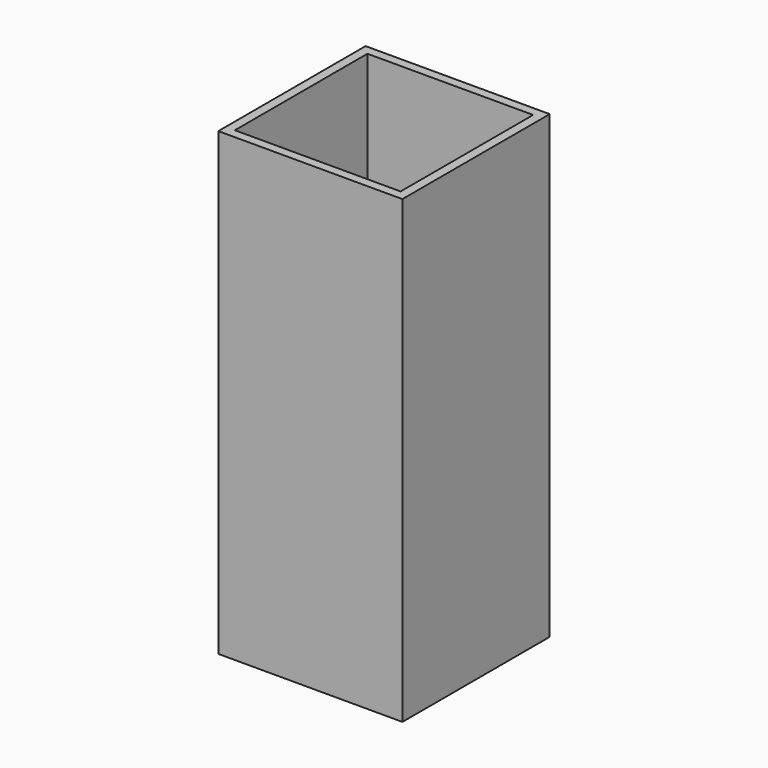
from build123d import *

# Parameters (mm, degrees)
F0_W     = 50.8
F0_H     = 50.8
F1_DEPTH = 63.5
F2_T     = -2.54


with BuildPart() as f1:
    # F0 (on Top) → F1 (new body, symmetric)
    with BuildSketch(Plane.XY):
        Rectangle(F0_W, F0_H)
    extrude(amount=F1_DEPTH, both=True)

    # F2
    f2_openings = [f1.faces().sort_by_distance(p)[0] for p in [
        (0, 0, 63.5),
        (0, 0, -63.5),
    ]]
    offset(amount=F2_T, openings=f2_openings)


solid = f1.part
